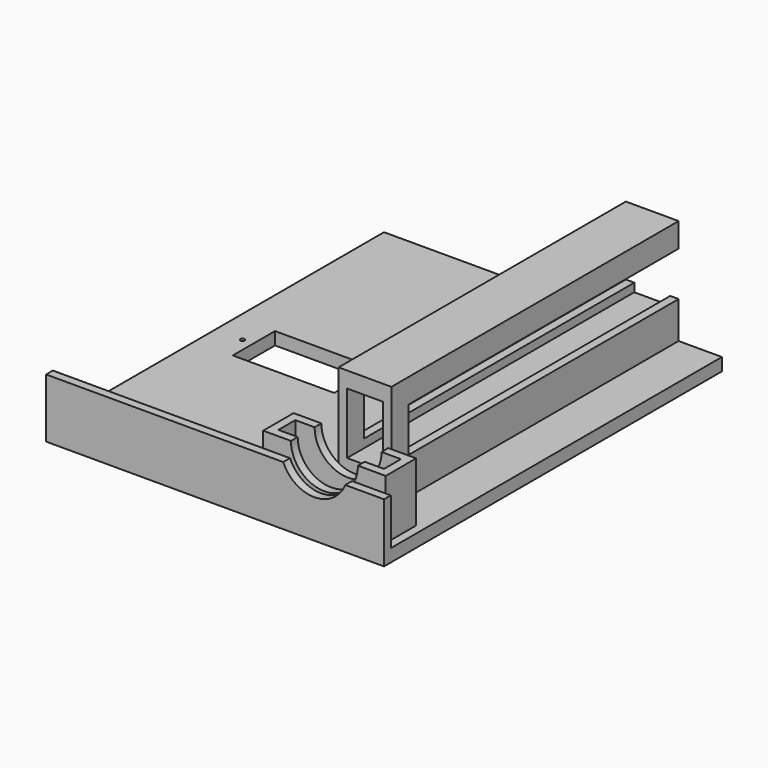
from build123d import *

# Parameters (mm, degrees)
F0_W      = 80
F0_H      = 100
F1_DEPTH  = 34
F2_W      = 29
F2_H      = 9
F2_W_2    = 36
F2_H_2    = 16.5
F4_DEPTH  = 31
F5_DEPTH  = 85
F3_W      = 2
F3_H      = 10.5
F6_DEPTH  = 80
F2_W_3    = 24
F2_H_3    = 12.5
F2_R      = 0.5
F7_DEPTH  = 37
F8_DEPTH  = 31
F2_W_4    = 25
F2_H_4    = 5
F9_DEPTH  = 30
F10_DEPTH = 17
F12_DEPTH = 15
F13_DEPTH = 6
F14_DEPTH = 20


with BuildPart() as f1:
    # F0 (on Top) → F1 (new body)
    with BuildSketch(Plane.XY):
        with Locations((40, 50)):
            Rectangle(F0_W, F0_H)
    extrude(amount=F1_DEPTH)

    # F2 (on face) → F4 (cut)
    with BuildSketch(Plane.XY.offset(34)):
        Polygon((57.25, 15), (57.25, 100), (0, 100), (0, 2), (80, 2), (80, 100), (69.75, 100), (69.75, 15), align=None)
        with Locations((63.5, 7.5)):
            Rectangle(F2_W, F2_H, mode=Mode.SUBTRACT)
        with Locations((21, 50.25)):
            Rectangle(F2_W_2, F2_H_2, mode=Mode.SUBTRACT)
    extrude(amount=-F4_DEPTH, mode=Mode.SUBTRACT)

    # F3 (on face) → F5 (cut)
    with BuildSketch(Plane(origin=(0, 100, 0), x_dir=(-1, 0, 0), z_dir=(0, 1, 0))):
        Polygon((-67.75, 11.75), (-67.75, 9.75), (-59.25, 9.75), (-59.25, 11.75), (-59.25, 22.25), (-59.25, 24.25), (-67.75, 24.25), (-67.75, 22.25), align=None)
    extrude(amount=-F5_DEPTH, mode=Mode.SUBTRACT)

    # F3 (on face) → F6 (cut)
    with BuildSketch(Plane(origin=(0, 100, 0), x_dir=(-1, 0, 0), z_dir=(0, 1, 0))):
        with Locations((-58.25, 17)):
            Rectangle(F3_W, F3_H)
        with Locations((-68.75, 17)):
            Rectangle(F3_W, F3_H)
    extrude(amount=-F6_DEPTH, mode=Mode.SUBTRACT)

    # F2 (on face) → F7 (cut)
    with BuildSketch(Plane.XY.offset(34)):
        with Locations((21, 50.25)):
            Rectangle(F2_W_3, F2_H_3)
        with Locations((6.5, 50)):
            Circle(F2_R)
        with Locations((35.5, 50)):
            Circle(F2_R)
    extrude(amount=-F7_DEPTH, mode=Mode.SUBTRACT)

    # F2 (on face) → F8 (cut)
    with BuildSketch(Plane.XY.offset(34)):
        with Locations((21, 50.25)):
            Rectangle(F2_W_2, F2_H_2)
        with Locations((6.5, 50)):
            Circle(F2_R, mode=Mode.SUBTRACT)
        with Locations((21, 50.25)):
            Rectangle(F2_W_3, F2_H_3, mode=Mode.SUBTRACT)
        with Locations((35.5, 50)):
            Circle(F2_R, mode=Mode.SUBTRACT)
    extrude(amount=-F8_DEPTH, mode=Mode.SUBTRACT)

    # F2 (on face) → F9 (cut)
    with BuildSketch(Plane.XY.offset(34)):
        with Locations((63.5, 7.5)):
            Rectangle(F2_W_4, F2_H_4)
    extrude(amount=-F9_DEPTH, mode=Mode.SUBTRACT)

    # F2 (on face) → F10 (cut)
    with BuildSketch(Plane.XY.offset(34)):
        with Locations((63.5, 7.5)):
            Rectangle(F2_W, F2_H)
        with Locations((63.5, 7.5)):
            Rectangle(F2_W_4, F2_H_4, mode=Mode.SUBTRACT)
    extrude(amount=-F10_DEPTH, mode=Mode.SUBTRACT)

    # F11 (on face) → F12 (cut)
    with BuildSketch(Plane(origin=(0, 12, 0), x_dir=(-1, 0, 0), z_dir=(0, 1, 0))):
        with BuildLine():
            ThreePointArc((-71.4303621394, 17), (-63.5, 9.0696378606), (-55.5696378606, 17))
            Line((-55.5696378606, 17), (-71.4303621394, 17))
        make_face()
    extrude(amount=-F12_DEPTH, mode=Mode.SUBTRACT)

    # F13 (cut): a face of the model
    f13_faces = [f1.faces().sort_by_distance(p)[0] for p in [
        (63.5, 57.5, 34),
    ]]
    extrude(f13_faces, amount=-F13_DEPTH, mode=Mode.SUBTRACT)

    # F14 (cut): a face of the model
    f14_faces = [f1.faces().sort_by_distance(p)[0] for p in [
        (40, 1, 34),
    ]]
    extrude(f14_faces, amount=-F14_DEPTH, mode=Mode.SUBTRACT)


solid = f1.part
